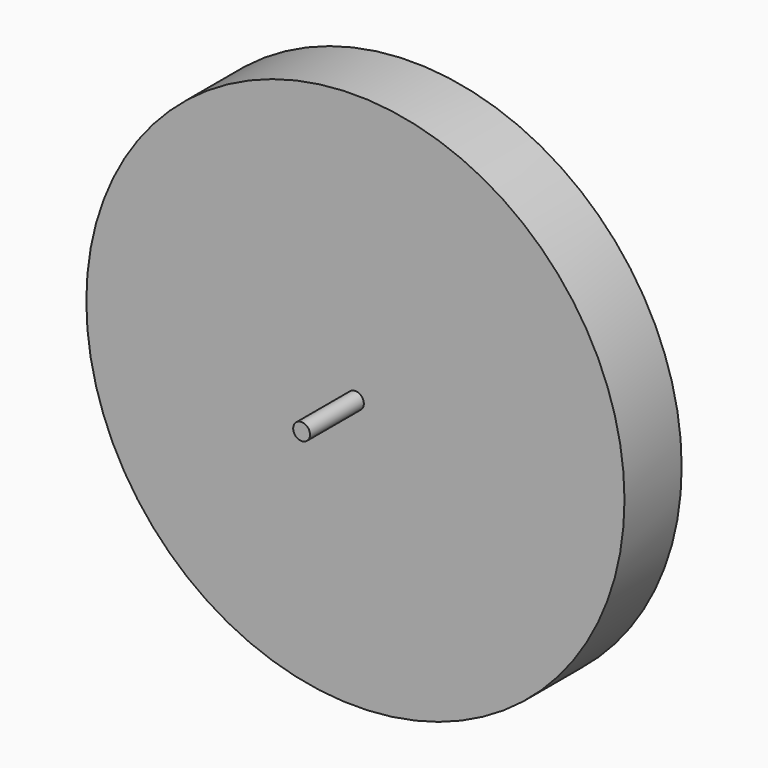
from build123d import *

# Parameters (mm, degrees)
F0_R          = 6.35
F0_R_2        = 203.2
F1_DEPTH      = 53.975
F2_DEPTH      = 104.775
F2_DEPTH_BACK = 50.8


with BuildPart() as f1:
    # F0 (on Front) → F1 (new body)
    with BuildSketch(Plane.XZ):
        Circle(F0_R)
        Circle(F0_R_2)
        Circle(F0_R, mode=Mode.SUBTRACT)
    extrude(amount=F1_DEPTH)

    # F0 (on Front) → F2 (join, two sides)
    with BuildSketch(Plane.XZ) as f2_sk:
        Circle(F0_R)
    extrude(amount=F2_DEPTH)
    extrude(f2_sk.sketch, amount=-F2_DEPTH_BACK)


solid = f1.part
